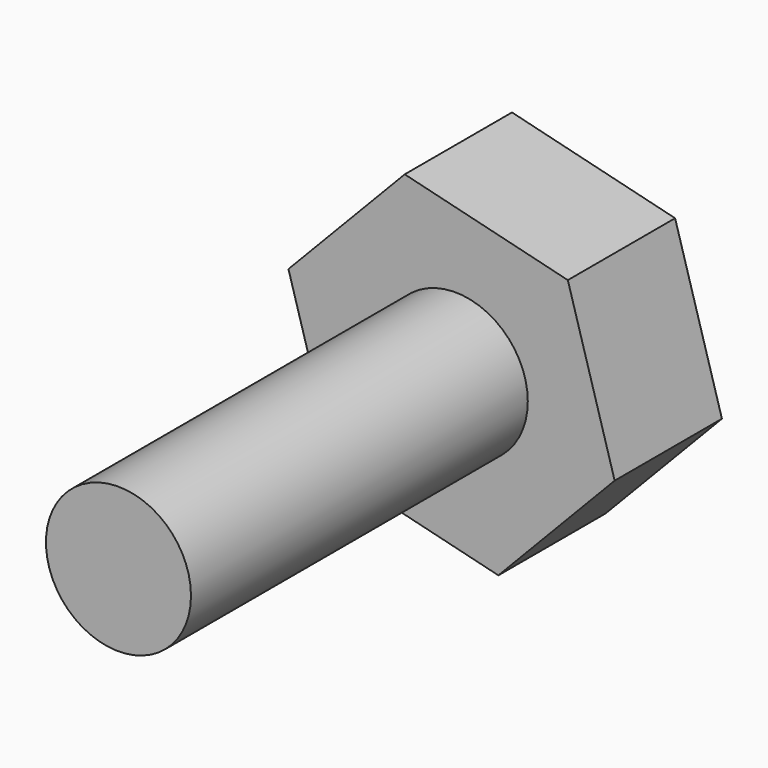
from build123d import *

# Parameters (mm, degrees)
F1_DEPTH = 25.4
F2_R     = 13.739237
F3_DEPTH = 79.756


with BuildPart() as f1:
    # F0 (on Front) → F1 (new body)
    with BuildSketch(Plane.XZ):
        Polygon((-77.74751, 30.960405), (-46.849317, 23.362072), (-24.819871, 46.321527), (-33.688618, 76.879313), (-64.586812, 84.477646), (-86.616258, 61.518192), align=None)
    extrude(amount=F1_DEPTH)

    # F2 (on face) → F3 (join)
    with BuildSketch(Plane.XZ.offset(25.4)):
        with Locations((-55.014908, 54.188281)):
            Circle(F2_R)
    extrude(amount=F3_DEPTH)


solid = f1.part
